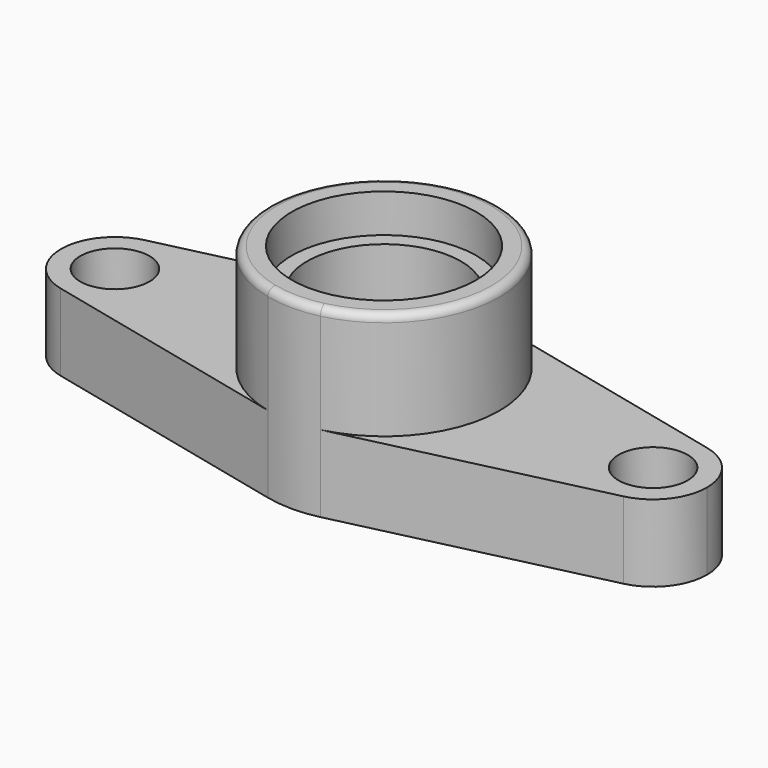
from build123d import *

# Parameters (mm, degrees)
F0_R     = 10
F1_DEPTH = 10
F2_R     = 15
F2_R_2   = 10
F3_DEPTH = 14
F4_R     = 3
F5_DEPTH = 5
F6_R     = 4.5
F7_DEPTH = 5
F8_R     = 12
F9_DEPTH = 5
F10_R    = 1


with BuildPart() as f1:
    # F0 (on Top) → F1 (new body)
    with BuildSketch(Plane.XY):
        with BuildLine():
            ThreePointArc((42, 0), (40.486347, 4.347413), (36.6, 6.81469))
            ThreePointArc((36.6, 6.81469), (28, 0), (36.6, -6.81469))
            ThreePointArc((36.6, -6.81469), (40.486347, -4.347413), (42, 0))
        make_face()
        with BuildLine():
            ThreePointArc((-28, 0), (-30.652587, 5.486347), (-36.6, 6.81469))
            ThreePointArc((-36.6, 6.81469), (-42, 0), (-36.6, -6.81469))
            ThreePointArc((-36.6, -6.81469), (-30.652587, -5.486347), (-28, 0))
        make_face()
        with BuildLine():
            ThreePointArc((3.428571, 14.602907), (11.756457, 9.315885), (15, 0))
            ThreePointArc((15, 0), (11.756457, -9.315885), (3.428571, -14.602907))
            Line((3.428571, -14.602907), (36.6, -6.81469))
            ThreePointArc((36.6, -6.81469), (28, 0), (36.6, 6.81469))
            Line((36.6, 6.81469), (3.428571, 14.602907))
        make_face()
        with BuildLine():
            ThreePointArc((3.428571, -14.602907), (11.756457, -9.315885), (15, 0))
            ThreePointArc((15, 0), (11.756457, 9.315885), (3.428571, 14.602907))
            ThreePointArc((3.428571, 14.602907), (0, 15), (-3.428571, 14.602907))
            ThreePointArc((-3.428571, 14.602907), (-15, 0), (-3.428571, -14.602907))
            ThreePointArc((-3.428571, -14.602907), (0, -15), (3.428571, -14.602907))
        make_face()
        Circle(F0_R, mode=Mode.SUBTRACT)
        with BuildLine():
            ThreePointArc((-3.428571, -14.602907), (-15, 0), (-3.428571, 14.602907))
            Line((-3.428571, 14.602907), (-36.6, 6.81469))
            ThreePointArc((-36.6, 6.81469), (-30.652587, 5.486347), (-28, 0))
            ThreePointArc((-28, 0), (-30.652587, -5.486347), (-36.6, -6.81469))
            Line((-36.6, -6.81469), (-3.428571, -14.602907))
        make_face()
    extrude(amount=F1_DEPTH)

    # F2 (on face) → F3 (join)
    with BuildSketch(Plane.XY.offset(10)):
        Circle(F2_R)
        Circle(F2_R_2, mode=Mode.SUBTRACT)
        with BuildLine():
            ThreePointArc((3.428571, -14.602907), (11.756457, -9.315885), (15, 0))
            ThreePointArc((15, 0), (11.756457, 9.315885), (3.428571, 14.602907))
            ThreePointArc((3.428571, 14.602907), (0, 15), (-3.428571, 14.602907))
            ThreePointArc((-3.428571, 14.602907), (-15, 0), (-3.428571, -14.602907))
            ThreePointArc((-3.428571, -14.602907), (0, -15), (3.428571, -14.602907))
        make_face()
        Circle(F2_R_2, mode=Mode.SUBTRACT)
    extrude(amount=F3_DEPTH)

    # F4 (on Top) → F5 (cut)
    with BuildSketch(Plane.XY):
        with Locations((35, 0)):
            Circle(F4_R)
        with Locations((-35, 0)):
            Circle(F4_R)
    extrude(amount=F5_DEPTH, mode=Mode.SUBTRACT)

    # F6 (on face) → F7 (cut)
    with BuildSketch(Plane.XY.offset(10)):
        with Locations((35, 0)):
            Circle(F6_R)
        with Locations((-35, 0)):
            Circle(F6_R)
    extrude(amount=-F7_DEPTH, mode=Mode.SUBTRACT)

    # F8 (on face) → F9 (cut)
    with BuildSketch(Plane.XY.offset(24)):
        Circle(F8_R)
    extrude(amount=-F9_DEPTH, mode=Mode.SUBTRACT)

    # F10
    f10_edges = [f1.edges().sort_by_distance(p)[0] for p in [
        (-15, 0, 24),
    ]]
    fillet(f10_edges, radius=F10_R)


solid = f1.part
